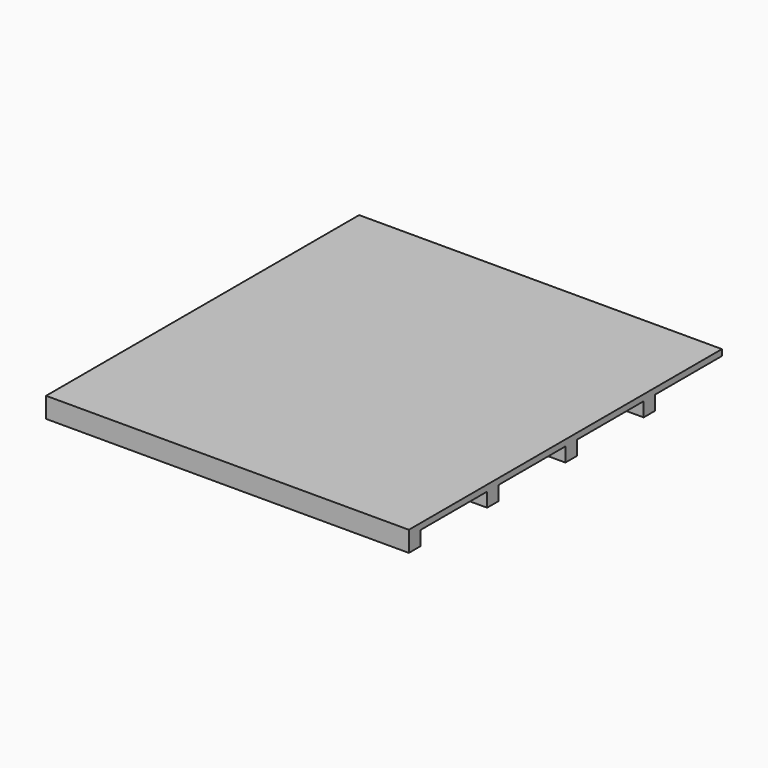
from build123d import *

# Parameters (mm, degrees)
F0_W     = 2260.6
F0_H     = 2438.4
F1_DEPTH = 127
F2_W     = 520.7
F2_H     = 88.9
F3_DEPTH = 2260.601


with BuildPart() as f1:
    # F0 (on Top) → F1 (new body)
    with BuildSketch(Plane.XY):
        with Locations((1130.3, -1219.2)):
            Rectangle(F0_W, F0_H)
    extrude(amount=F1_DEPTH)

    # F2 (on face) → F3 (cut, through all)
    with BuildSketch(Plane(origin=(0, 0, 0), x_dir=(0, -1, 0), z_dir=(-1, 0, 0))):
        with Locations((260.35, 44.45)):
            Rectangle(F2_W, F2_H)
        with Locations((869.95, 44.45)):
            Rectangle(F2_W, F2_H)
        with Locations((1479.55, 44.45)):
            Rectangle(F2_W, F2_H)
        with Locations((2089.15, 44.45)):
            Rectangle(F2_W, F2_H)
    extrude(amount=-F3_DEPTH, mode=Mode.SUBTRACT)


solid = f1.part
